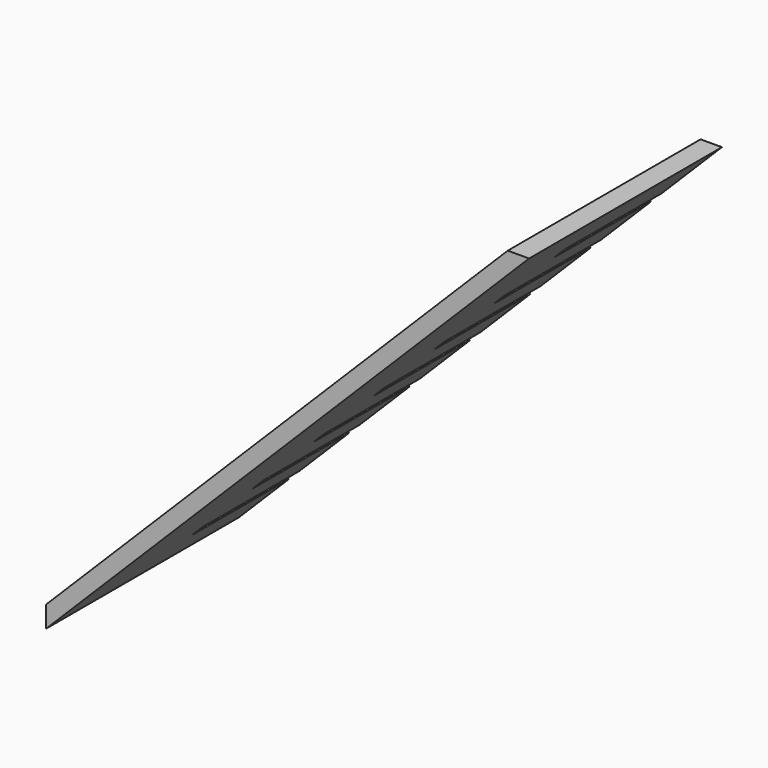
from build123d import *

# Parameters (mm, degrees)
F1_DEPTH = 152.4
F2_W     = 152.4
F2_H     = 19.05
F3_DEPTH = 19.05


with BuildPart() as f1:
    # F0 (on Front) → F1 (new body, symmetric)
    with BuildSketch(Plane.XZ):
        Polygon((-421.5234547212, 26.9407683632), (-421.5234547212, 0), (189.1339615115, 610.6574162327), (162.1931931483, 610.6574162327), align=None)
    extrude(amount=F1_DEPTH, both=True)

    # F2 (on face) → F3 (cut)
    with BuildSketch(Plane(origin=(-224.2321115422, 0, 224.2321115422), x_dir=(0, -1, 0), z_dir=(-0.7071067812, 0, 0.7071067812))):
        with Locations((-76.2, -199.6370932625)):
            Rectangle(F2_W, F2_H)
        with Locations((-76.2, -91.6870932625)):
            Rectangle(F2_W, F2_H)
        with Locations((-76.2, 16.2629067375)):
            Rectangle(F2_W, F2_H)
        with Locations((-76.2, 124.2129067375)):
            Rectangle(F2_W, F2_H)
        with Locations((-76.2, 232.1629067375)):
            Rectangle(F2_W, F2_H)
        with Locations((-76.2, 340.1129067375)):
            Rectangle(F2_W, F2_H)
        with Locations((-76.2, 448.0629067375)):
            Rectangle(F2_W, F2_H)
    extrude(amount=-F3_DEPTH, mode=Mode.SUBTRACT)


solid = f1.part
